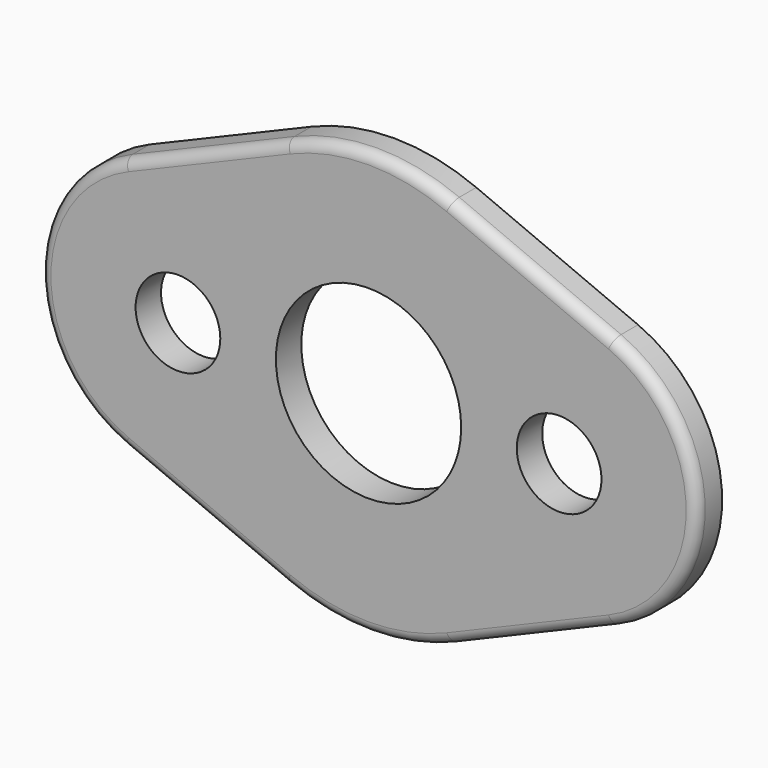
from build123d import *

# Parameters (mm, degrees)
F0_R     = 4
F0_R_2   = 8.75
F1_DEPTH = 3
F2_R     = 1


with BuildPart() as f1:
    # F0 (on Front) → F1 (new body)
    with BuildSketch(Plane.XZ):
        with BuildLine():
            Line((-23.055556, -11.976701), (-7.777778, -18.425693))
            ThreePointArc((-7.777778, -18.425693), (0, -20), (7.777778, -18.425693))
            Line((7.777778, -18.425693), (23.055556, -11.976701))
            ThreePointArc((23.055556, -11.976701), (31, 0), (23.055556, 11.976701))
            Line((23.055556, 11.976701), (7.777778, 18.425693))
            ThreePointArc((7.777778, 18.425693), (0, 20), (-7.777778, 18.425693))
            Line((-7.777778, 18.425693), (-23.055556, 11.976701))
            ThreePointArc((-23.055556, 11.976701), (-31, 0), (-23.055556, -11.976701))
        make_face()
        with Locations((-18, 0)):
            Circle(F0_R, mode=Mode.SUBTRACT)
        Circle(F0_R_2, mode=Mode.SUBTRACT)
        with Locations((18, 0)):
            Circle(F0_R, mode=Mode.SUBTRACT)
    extrude(amount=F1_DEPTH)

    # F2
    f2_edges = [f1.edges().sort_by_distance(p)[0] for p in [
        (15.416667, -3, 15.201197),
    ]]
    fillet(f2_edges, radius=F2_R)


solid = f1.part
